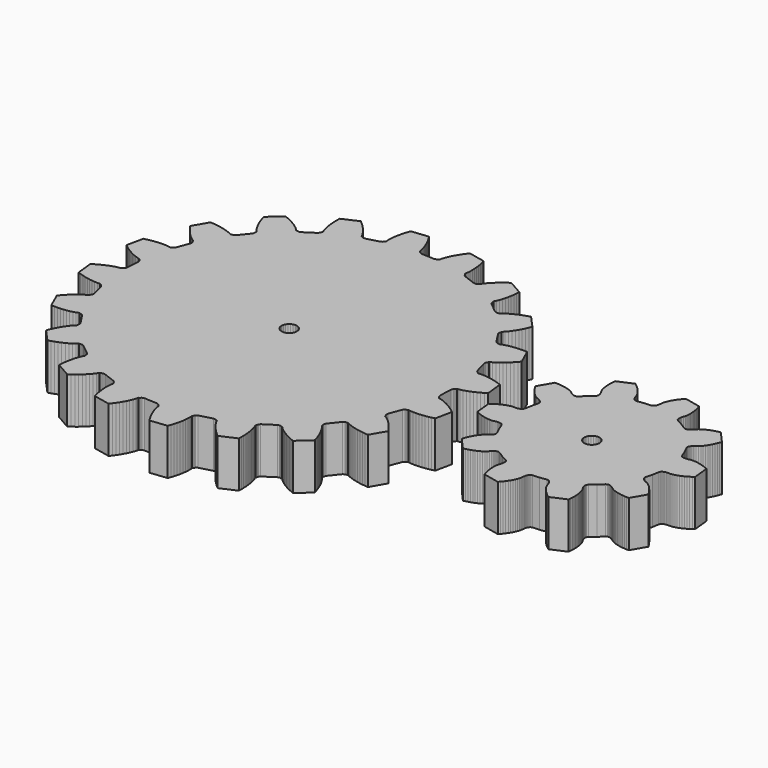
from build123d import *

# Parameters (mm, degrees)
F1_DEPTH = 19.05


with BuildPart() as f1:
    # F0 (on Top) → F1 (new body)
    with BuildSketch(Plane.XY):
        Polygon((23.085806, -6.855714), (22.881082, -6.106414), (23.154132, -0.678434), (23.433024, 0.046482), (23.707598, 0.324612), (23.981664, 0.522986), (24.252936, 0.91821), (24.8031, 0.972312), (25.352502, 1.065784), (26.449782, 1.326388), (27.544522, 1.663954), (28.636214, 2.066036), (29.724096, 2.52603), (30.807152, 3.039364), (31.885128, 3.60299), (32.957008, 4.214368), (34.022284, 4.871974), (33.271968, 11.86815), (32.09163, 12.284964), (30.914594, 12.655296), (29.741622, 12.977622), (28.574238, 13.249656), (27.413712, 13.46835), (26.261568, 13.629894), (25.120092, 13.727684), (23.992586, 13.749782), (23.435818, 13.724636), (22.88667, 13.660882), (22.537928, 13.989558), (22.227794, 14.125448), (21.900388, 14.338808), (21.47443, 14.988286), (20.056602, 20.23491), (20.09775, 21.010626), (20.27301, 21.359876), (20.4724, 21.633434), (20.60829, 22.09292), (21.114766, 22.314408), (21.608542, 22.573234), (22.57171, 23.160228), (23.508462, 23.819358), (24.422354, 24.539194), (25.314656, 25.312878), (26.186384, 26.135838), (27.037284, 27.004772), (27.867864, 27.917648), (28.677616, 28.87218), (25.802336, 35.294062), (24.550878, 35.325812), (23.316946, 35.314128), (22.10181, 35.258248), (20.907502, 35.15614), (19.736054, 35.005772), (18.590514, 34.803334), (17.474692, 34.543746), (16.395446, 34.216086), (15.87373, 34.020252), (15.371318, 33.789874), (14.937994, 33.994598), (14.60119, 34.027872), (14.223746, 34.12998), (13.617702, 34.615882), (10.648188, 39.167562), (10.447528, 39.918132), (10.506456, 40.304466), (10.611612, 40.626284), (10.598658, 41.105328), (11.011916, 41.472358), (11.401552, 41.870884), (12.13612, 42.726864), (12.823444, 43.643296), (13.470128, 44.610274), (14.079728, 45.621702), (14.65453, 46.67377), (15.195296, 47.76343), (15.703042, 48.888142), (16.178276, 50.046128), (11.458956, 55.26532), (10.25906, 54.908704), (9.089136, 54.516274), (7.950708, 54.087776), (6.84657, 53.621432), (5.779008, 53.11648), (4.751832, 52.569872), (3.770884, 51.978052), (2.845816, 51.333146), (2.410206, 50.985674), (2.003298, 50.611278), (1.528064, 50.671984), (1.197356, 50.599848), (0.806958, 50.580036), (0.080518, 50.855118), (-4.15036, 54.266338), (-4.573016, 54.918102), (-4.636516, 55.303674), (-4.635754, 55.642256), (-4.796028, 56.093868), (-4.516628, 56.570626), (-4.269232, 57.070244), (-3.835146, 58.111136), (-3.46456, 59.195208), (-3.14833, 60.314586), (-2.881122, 61.464952), (-2.659634, 62.643004), (-2.482088, 63.846456), (-2.346706, 65.073022), (-2.252472, 66.321178), (-8.353552, 69.826632), (-9.384538, 69.116702), (-10.376154, 68.382134), (-11.326114, 67.622674), (-12.232386, 66.838068), (-13.091668, 66.027808), (-13.899642, 65.190624), (-14.64945, 64.324738), (-15.33017, 63.425324), (-15.637002, 62.96025), (-15.908274, 62.478412), (-16.37919, 62.389512), (-16.67129, 62.218316), (-17.036542, 62.079124), (-17.812258, 62.115954), (-22.890226, 64.053212), (-23.49373, 64.542416), (-23.673308, 64.88938), (-23.777194, 65.211452), (-24.06904, 65.591436), (-23.950676, 66.13144), (-23.86965, 66.682874), (-23.778464, 67.807078), (-23.761192, 68.952618), (-23.806404, 70.114922), (-23.90775, 71.291704), (-24.061166, 72.480424), (-24.264112, 73.679812), (-24.514302, 74.88809), (-24.810466, 76.104496), (-31.696152, 77.552804), (-32.45739, 76.559156), (-33.173416, 75.554078), (-33.842198, 74.538078), (-34.461704, 73.511918), (-35.028378, 72.475852), (-35.538156, 71.430134), (-35.983926, 70.374764), (-36.353242, 69.30898), (-36.501324, 68.77177), (-36.610544, 68.229734), (-37.030914, 67.99961), (-37.255704, 67.746626), (-37.559996, 67.501516), (-38.309296, 67.296792), (-43.737276, 67.569842), (-44.462446, 67.848734), (-44.740322, 68.123308), (-44.938696, 68.397374), (-45.33392, 68.668646), (-45.388022, 69.21881), (-45.481494, 69.768212), (-45.742098, 70.865492), (-46.079664, 71.960232), (-46.481746, 73.051924), (-46.94174, 74.139806), (-47.455074, 75.222862), (-48.0187, 76.300838), (-48.630078, 77.372718), (-49.287684, 78.437994), (-56.28386, 77.687678), (-56.700674, 76.50734), (-57.071006, 75.330304), (-57.393332, 74.157332), (-57.665366, 72.989948), (-57.884314, 71.829422), (-58.045858, 70.677278), (-58.143648, 69.535802), (-58.165492, 68.408296), (-58.140346, 67.851528), (-58.076846, 67.30238), (-58.405268, 66.953638), (-58.541158, 66.643504), (-58.754518, 66.316098), (-59.403996, 65.89014), (-64.65062, 64.472312), (-65.426336, 64.51346), (-65.77584, 64.68872), (-66.049144, 64.88811), (-66.508884, 65.024), (-66.730372, 65.530476), (-66.988944, 66.024252), (-67.575938, 66.98742), (-68.235068, 67.924172), (-68.954904, 68.838064), (-69.728588, 69.730366), (-70.551548, 70.602094), (-71.420482, 71.452994), (-72.333358, 72.283574), (-73.28789, 73.093326), (-79.710026, 70.218046), (-79.741522, 68.966588), (-79.730092, 67.732656), (-79.673958, 66.51752), (-79.572104, 65.323212), (-79.421482, 64.151764), (-79.219298, 63.006224), (-78.959456, 61.890402), (-78.63205, 60.811156), (-78.435962, 60.28944), (-78.205584, 59.787028), (-78.410308, 59.353704), (-78.443836, 59.0169), (-78.54569, 58.639456), (-79.031592, 58.033412), (-83.583526, 55.063898), (-84.333842, 54.863238), (-84.720176, 54.922166), (-85.041994, 55.027322), (-85.521038, 55.014368), (-85.888322, 55.427626), (-86.286848, 55.817262), (-87.142574, 56.55183), (-88.059006, 57.239154), (-89.025984, 57.885838), (-90.037666, 58.495438), (-91.08948, 59.07024), (-92.17914, 59.611006), (-93.303852, 60.118752), (-94.461838, 60.593986), (-99.68103, 55.874666), (-99.324414, 54.67477), (-98.932238, 53.504846), (-98.503486, 52.366418), (-98.037396, 51.26228), (-97.53219, 50.194718), (-96.985836, 49.167542), (-96.394016, 48.186594), (-95.74911, 47.261526), (-95.401384, 46.825916), (-95.026988, 46.419008), (-95.087948, 45.943774), (-95.015558, 45.613066), (-94.995746, 45.222668), (-95.270828, 44.496228), (-98.682048, 40.26535), (-99.333812, 39.842694), (-99.719384, 39.779194), (-100.057966, 39.779956), (-100.509578, 39.619682), (-100.98659, 39.899082), (-101.485954, 40.146478), (-102.526846, 40.580564), (-103.610918, 40.95115), (-104.73055, 41.26738), (-105.880916, 41.534588), (-107.058968, 41.756076), (-108.262166, 41.933622), (-109.488732, 42.069004), (-110.737142, 42.163238), (-114.242342, 36.062158), (-113.532412, 35.031172), (-112.797844, 34.039556), (-112.038384, 33.089596), (-111.253778, 32.183324), (-110.443518, 31.324042), (-109.606334, 30.516068), (-108.740448, 29.76626), (-107.841288, 29.08554), (-107.37596, 28.778708), (-106.894376, 28.507436), (-106.805222, 28.03652), (-106.63428, 27.74442), (-106.494834, 27.379168), (-106.531918, 26.603452), (-108.468922, 21.525484), (-108.958126, 20.92198), (-109.30509, 20.742402), (-109.627162, 20.638516), (-110.0074, 20.34667), (-110.54715, 20.465034), (-111.098584, 20.54606), (-112.222788, 20.637246), (-113.368328, 20.654518), (-114.530632, 20.609306), (-115.707414, 20.50796), (-116.896134, 20.354544), (-118.095522, 20.151598), (-119.304054, 19.901408), (-120.520206, 19.605244), (-121.968768, 12.719558), (-120.974866, 11.95832), (-119.969788, 11.242294), (-118.953788, 10.573512), (-117.927628, 9.954006), (-116.891562, 9.387332), (-115.845844, 8.877554), (-114.790474, 8.431784), (-113.724944, 8.062468), (-113.18748, 7.914386), (-112.645698, 7.805166), (-112.41532, 7.384796), (-112.16259, 7.160006), (-111.917226, 6.855714), (-111.712502, 6.106414), (-111.985552, 0.678434), (-112.264444, -0.046736), (-112.539018, -0.324612), (-112.813338, -0.522986), (-113.084356, -0.91821), (-113.63452, -0.972312), (-114.184176, -1.065784), (-115.281456, -1.326388), (-116.376196, -1.663954), (-117.467634, -2.066036), (-118.555516, -2.52603), (-119.638826, -3.039364), (-120.716548, -3.60299), (-121.788682, -4.214368), (-122.853704, -4.871974), (-122.103642, -11.86815), (-120.923304, -12.284964), (-119.746014, -12.655296), (-118.573042, -12.977622), (-117.405658, -13.249656), (-116.245132, -13.468604), (-115.092988, -13.630148), (-113.951766, -13.727938), (-112.824006, -13.749782), (-112.267238, -13.724636), (-111.71809, -13.661136), (-111.369348, -13.989558), (-111.059214, -14.125448), (-110.732062, -14.338808), (-110.30585, -14.988286), (-108.888276, -20.23491), (-108.92917, -21.010626), (-109.10443, -21.36013), (-109.304074, -21.633434), (-109.439964, -22.093174), (-109.946186, -22.314662), (-110.439962, -22.573234), (-111.40313, -23.160228), (-112.339882, -23.819358), (-113.253774, -24.539194), (-114.14633, -25.312878), (-115.017804, -26.135838), (-115.868958, -27.004772), (-116.699284, -27.917648), (-117.509036, -28.87218), (-114.633756, -35.294316), (-113.382298, -35.325812), (-112.148366, -35.314382), (-110.93323, -35.258248), (-109.738922, -35.156394), (-108.567474, -35.005772), (-107.421934, -34.803588), (-106.306112, -34.543746), (-105.226866, -34.21634), (-104.70515, -34.020252), (-104.202738, -33.789874), (-103.769414, -33.994598), (-103.43261, -34.028126), (-103.055166, -34.12998), (-102.449376, -34.615882), (-99.479862, -39.167816), (-99.279202, -39.918132), (-99.337876, -40.304466), (-99.443032, -40.626284), (-99.430332, -41.105328), (-99.843336, -41.472612), (-100.232972, -41.871138), (-100.96754, -42.726864), (-101.654864, -43.643296), (-102.301548, -44.610274), (-102.911402, -45.621956), (-103.48595, -46.67377), (-104.026716, -47.76343), (-104.534462, -48.888142), (-105.009696, -50.046128), (-100.29063, -55.26532), (-99.090734, -54.908704), (-97.920556, -54.516528), (-96.782382, -54.087776), (-95.67799, -53.621686), (-94.610428, -53.11648), (-93.583506, -52.570126), (-92.602558, -51.978306), (-91.677236, -51.3334), (-91.241626, -50.985674), (-90.834718, -50.611278), (-90.359484, -50.672238), (-90.028776, -50.599848), (-89.638632, -50.580036), (-88.911938, -50.855118), (-84.681314, -54.266338), (-84.258404, -54.918102), (-84.194904, -55.303674), (-84.195666, -55.642256), (-84.035392, -56.093868), (-84.314792, -56.57088), (-84.562442, -57.070244), (-84.996528, -58.111136), (-85.36686, -59.195208), (-85.68309, -60.31484), (-85.950552, -61.465206), (-86.171786, -62.643258), (-86.349586, -63.846456), (-86.484714, -65.073022), (-86.578948, -66.321432), (-80.477868, -69.826632), (-79.446882, -69.116702), (-78.45552, -68.382134), (-77.505306, -67.622674), (-76.599034, -66.838068), (-75.739752, -66.027808), (-74.932032, -65.190624), (-74.18197, -64.324738), (-73.50125, -63.425578), (-73.194418, -62.96025), (-72.923146, -62.478666), (-72.45223, -62.389512), (-72.16013, -62.21857), (-71.795132, -62.079124), (-71.019162, -62.116208), (-65.941194, -64.053212), (-65.337944, -64.542416), (-65.158366, -64.88938), (-65.054226, -65.211452), (-64.76238, -65.59169), (-64.880744, -66.13144), (-64.96177, -66.682874), (-65.052956, -67.807078), (-65.070228, -68.952618), (-65.025016, -70.114922), (-64.923924, -71.291704), (-64.770254, -72.480424), (-64.567562, -73.679812), (-64.317118, -74.888344), (-64.020954, -76.104496), (-57.135268, -77.553058), (-56.37403, -76.559156), (-55.658258, -75.554078), (-54.989222, -74.538078), (-54.369716, -73.511918), (-53.803042, -72.475852), (-53.293264, -71.430134), (-52.847748, -70.374764), (-52.478178, -69.309234), (-52.330096, -68.77177), (-52.220876, -68.229988), (-51.80076, -67.99961), (-51.575716, -67.74688), (-51.271424, -67.501516), (-50.522124, -67.296792), (-45.094144, -67.569842), (-44.369228, -67.848734), (-44.091098, -68.123308), (-43.892724, -68.397628), (-43.4975, -68.668646), (-43.443398, -69.21881), (-43.349926, -69.768466), (-43.089322, -70.865746), (-42.751756, -71.960486), (-42.349674, -73.051924), (-41.88968, -74.139806), (-41.376346, -75.223116), (-40.81272, -76.300838), (-40.201342, -77.372972), (-39.543736, -78.437994), (-32.54756, -77.687932), (-32.130746, -76.507594), (-31.760414, -75.330304), (-31.438088, -74.157332), (-31.166054, -72.989948), (-30.94736, -71.829422), (-30.785816, -70.677278), (-30.688026, -69.536056), (-30.665928, -68.408296), (-30.691074, -67.851528), (-30.754828, -67.30238), (-30.426152, -66.953638), (-30.290262, -66.643504), (-30.076902, -66.316352), (-29.427424, -65.89014), (-24.1808, -64.472566), (-23.405084, -64.51346), (-23.055834, -64.68872), (-22.782276, -64.888364), (-22.32279, -65.024254), (-22.101302, -65.530476), (-21.842476, -66.024252), (-21.255482, -66.98742), (-20.596352, -67.924172), (-19.876516, -68.838064), (-19.102832, -69.73062), (-18.279872, -70.602094), (-17.410938, -71.453248), (-16.498062, -72.283574), (-15.54353, -73.093326), (-9.121648, -70.218046), (-9.089898, -68.966588), (-9.101582, -67.732656), (-9.157462, -66.51752), (-9.25957, -65.323212), (-9.409938, -64.151764), (-9.612376, -63.006224), (-9.871964, -61.890402), (-10.199624, -60.811156), (-10.395458, -60.28944), (-10.625836, -59.787028), (-10.421112, -59.353704), (-10.387838, -59.0169), (-10.28573, -58.639456), (-9.799828, -58.033666), (-5.248148, -55.064152), (-4.497578, -54.863492), (-4.111244, -54.922166), (-3.789426, -55.027322), (-3.310382, -55.014622), (-2.943352, -55.427626), (-2.544826, -55.817262), (-1.688846, -56.55183), (-0.772414, -57.239154), (0.194564, -57.885838), (1.205992, -58.495692), (2.25806, -59.07024), (3.34772, -59.611006), (4.472432, -60.118752), (5.630418, -60.593986), (10.84961, -55.87492), (10.492994, -54.675024), (10.100564, -53.504846), (9.672066, -52.366672), (9.205722, -51.26228), (8.70077, -50.194718), (8.154162, -49.167796), (7.562342, -48.186848), (6.917436, -47.261526), (6.569964, -46.825916), (6.195568, -46.419008), (6.256274, -45.943774), (6.184138, -45.613066), (6.164326, -45.222922), (6.439408, -44.496228), (9.850628, -40.265604), (10.502392, -39.842694), (10.887964, -39.779194), (11.226546, -39.779956), (11.678158, -39.619682), (12.154916, -39.899082), (12.654534, -40.146732), (13.695426, -40.580818), (14.779498, -40.95115), (15.898876, -41.26738), (17.049242, -41.534842), (18.227294, -41.756076), (19.430746, -41.933876), (20.657312, -42.069004), (21.905468, -42.163238), (25.410922, -36.062158), (24.700992, -35.031172), (23.966424, -34.03981), (23.206964, -33.089596), (22.422358, -32.183324), (21.612098, -31.324042), (20.774914, -30.516322), (19.909028, -29.76626), (19.009614, -29.08554), (18.54454, -28.778708), (18.062702, -28.507436), (17.973802, -28.03652), (17.802606, -27.74442), (17.663414, -27.379422), (17.700244, -26.603452), (19.637502, -21.525484), (20.126706, -20.922234), (20.47367, -20.742656), (20.795742, -20.638516), (21.175726, -20.34667), (21.71573, -20.465034), (22.267164, -20.54606), (23.391368, -20.637246), (24.536908, -20.654518), (25.699212, -20.609306), (26.875994, -20.508214), (28.064714, -20.354544), (29.264102, -20.151852), (30.47238, -19.901408), (31.688786, -19.605244), (33.137094, -12.719558), (32.143446, -11.95832), (31.138368, -11.242548), (30.122368, -10.573512), (29.096208, -9.954006), (28.060142, -9.387332), (27.014424, -8.877554), (25.959054, -8.432038), (24.89327, -8.062468), (24.35606, -7.914386), (23.814024, -7.805166), (23.5839, -7.38505), (23.330916, -7.160006), align=None)
        Polygon((-41.348914, 0.82169), (-41.24071, 0), (-41.348914, -0.82169), (-41.66616, -1.5875), (-42.170604, -2.245106), (-42.82821, -2.74955), (-43.59402, -3.066796), (-44.41571, -3.175), (-45.2374, -3.066796), (-46.00321, -2.74955), (-46.660816, -2.245106), (-47.16526, -1.5875), (-47.482506, -0.82169), (-47.59071, 0), (-47.482506, 0.82169), (-47.16526, 1.5875), (-46.660816, 2.245106), (-46.00321, 2.74955), (-45.2374, 3.066796), (-44.41571, 3.175), (-43.59402, 3.066796), (-42.82821, 2.74955), (-42.170604, 2.245106), (-41.66616, 1.5875), align=None, mode=Mode.SUBTRACT)
        Polygon((51.049174, -9.408668), (51.406806, -9.912858), (52.411376, -12.503404), (53.64353, -14.99362), (53.773578, -15.597886), (53.729636, -15.887192), (53.654706, -16.121888), (53.563012, -16.326612), (53.460142, -16.511524), (53.348636, -16.681704), (53.106066, -16.989552), (52.844192, -17.26438), (52.56657, -17.513808), (51.975258, -17.953228), (51.3715, -18.37309), (50.829464, -18.890996), (50.325274, -19.467322), (49.852326, -20.089114), (49.407572, -20.750784), (48.99025, -21.448268), (48.599344, -22.178772), (48.2346, -22.940264), (47.896272, -23.730966), (47.584106, -24.5491), (47.298864, -25.39365), (51.799998, -30.434788), (52.671218, -30.246574), (53.519578, -30.02915), (54.3433, -29.782008), (55.141114, -29.505656), (55.910988, -29.199586), (56.651144, -28.863544), (57.358788, -28.496514), (58.03011, -28.096718), (58.659522, -27.6606), (59.23534, -27.18054), (59.72048, -26.62809), (60.223908, -26.090118), (60.503054, -25.842468), (60.805822, -25.613106), (61.138816, -25.407112), (61.32068, -25.315418), (61.516006, -25.233884), (61.729874, -25.166066), (61.971428, -25.11806), (62.264036, -25.107138), (62.849506, -25.304496), (65.184782, -26.809954), (67.645534, -28.100274), (68.105782, -28.51277), (68.240402, -28.772612), (68.317872, -29.006292), (68.3641, -29.226002), (68.389246, -29.43606), (68.399152, -29.639514), (68.383912, -30.030928), (68.33362, -30.407102), (68.255642, -30.7721), (68.035424, -31.475426), (67.79387, -32.169862), (67.659758, -32.907478), (67.59067, -33.669986), (67.573398, -34.45129), (67.602608, -35.247834), (67.674998, -36.057332), (67.788028, -36.87826), (67.940682, -37.708586), (68.131436, -38.54704), (68.360036, -39.392352), (68.62572, -40.243506), (75.230228, -41.676066), (75.824588, -41.011856), (76.38288, -40.337232), (76.904088, -39.65321), (77.386942, -38.960552), (77.830172, -38.260528), (78.231238, -37.553646), (78.588108, -36.840668), (78.89621, -36.12261), (79.14894, -35.39998), (79.332836, -34.673032), (79.400654, -33.94075), (79.491586, -33.209484), (79.57185, -32.845248), (79.682086, -32.481774), (79.830422, -32.119316), (79.92364, -31.938214), (80.033622, -31.75762), (80.166718, -31.576772), (80.33385, -31.396178), (80.564228, -31.21533), (81.154016, -31.030926), (83.928204, -30.875986), (86.677246, -30.47365), (87.29218, -30.536642), (87.5538, -30.66796), (87.753698, -30.81147), (87.920322, -30.962092), (88.06434, -31.117032), (88.191594, -31.275782), (88.409526, -31.60141), (88.589866, -31.935674), (88.741504, -32.276542), (88.976708, -32.975042), (89.189306, -33.678876), (89.514426, -34.354262), (89.906602, -35.011868), (90.351864, -35.65398), (90.843862, -36.28136), (91.378024, -36.893754), (91.952064, -37.491416), (92.563696, -38.073584), (93.210888, -38.63975), (93.892878, -39.189152), (94.607888, -39.721536), (100.793296, -36.998656), (100.883466, -36.111688), (100.938584, -35.237928), (100.958142, -34.378138), (100.941886, -33.533842), (100.8888, -32.707072), (100.797868, -31.899352), (100.667312, -31.112968), (100.494592, -30.350968), (100.274374, -29.61767), (99.99599, -28.921456), (99.620324, -28.28925), (99.264216, -27.644344), (99.115118, -27.302206), (98.990404, -26.943558), (98.89744, -26.563066), (98.866452, -26.361898), (98.84918, -26.150824), (98.850704, -25.926542), (98.879914, -25.682194), (98.95967, -25.400508), (99.328478, -24.904446), (101.48189, -23.148544), (103.46944, -21.207222), (104.003856, -20.896834), (104.292654, -20.849082), (104.539034, -20.847812), (104.762046, -20.871688), (104.969818, -20.912582), (105.16616, -20.965922), (105.533698, -21.101304), (105.87609, -21.265642), (106.198924, -21.452586), (106.799888, -21.879306), (107.385612, -22.323806), (108.045758, -22.679152), (108.749592, -22.98065), (109.487208, -23.238206), (110.25378, -23.456646), (111.04626, -23.638002), (111.861854, -23.784052), (112.69853, -23.895558), (113.555018, -23.973282), (114.429794, -24.01697), (115.32108, -24.027384), (118.72468, -18.18894), (118.27637, -17.418304), (117.807232, -16.67891), (117.317774, -15.971774), (116.808504, -15.29842), (116.279422, -14.660626), (115.73129, -14.060678), (115.163346, -13.501116), (114.57559, -12.986258), (113.966498, -12.522454), (113.332006, -12.122912), (112.65662, -11.832336), (111.989362, -11.519662), (111.667544, -11.330686), (111.355886, -11.11377), (111.056928, -10.860532), (110.913672, -10.716006), (110.77575, -10.555478), (110.645194, -10.373106), (110.525052, -10.158222), (110.42396, -9.883394), (110.430818, -9.265412), (111.141002, -6.579108), (111.607854, -3.840226), (111.85779, -3.275076), (112.06353, -3.066542), (112.261904, -2.921), (112.456214, -2.808986), (112.648238, -2.720086), (112.838738, -2.64795), (113.215674, -2.54127), (113.589054, -2.472944), (113.960148, -2.434336), (114.697256, -2.426462), (115.432332, -2.441702), (116.175282, -2.341118), (116.921788, -2.171446), (117.670072, -1.946402), (118.41861, -1.672336), (119.166386, -1.353312), (119.91213, -0.992124), (120.654572, -0.59055), (121.393204, -0.14986), (122.126502, 0.328676), (122.853704, 0.844296), (122.175524, 7.568438), (121.35993, 7.928356), (120.54586, 8.250936), (119.734076, 8.535162), (118.926356, 8.780526), (118.123462, 8.985504), (117.327172, 9.148572), (116.53901, 9.267698), (115.760754, 9.338818), (114.995452, 9.35609), (114.247168, 9.306052), (113.529872, 9.144254), (112.80648, 9.004808), (112.435132, 8.96874), (112.055402, 8.96112), (111.66475, 8.990076), (111.463836, 9.022842), (111.257842, 9.071864), (111.04499, 9.142476), (110.82147, 9.2456), (110.578392, 9.408668), (110.220506, 9.912604), (109.21619, 12.50315), (107.983782, 14.99362), (107.853734, 15.597632), (107.897676, 15.887192), (107.972606, 16.121634), (108.0643, 16.326358), (108.16717, 16.511524), (108.278676, 16.681704), (108.521246, 16.989298), (108.78312, 17.264126), (109.060742, 17.513554), (109.652308, 17.953228), (110.255812, 18.372836), (110.797848, 18.890996), (111.302038, 19.467068), (111.77524, 20.089114), (112.21974, 20.750784), (112.637062, 21.448268), (113.027968, 22.178772), (113.392712, 22.940264), (113.73104, 23.730712), (114.043206, 24.5491), (114.328448, 25.39365), (109.827314, 30.434788), (108.956094, 30.246574), (108.107734, 30.028896), (107.284012, 29.782008), (106.486452, 29.505656), (105.716324, 29.199586), (104.976168, 28.863544), (104.268778, 28.496514), (103.597202, 28.096718), (102.968044, 27.6606), (102.391972, 27.18054), (101.906832, 26.62809), (101.403404, 26.089864), (101.124258, 25.842468), (100.82149, 25.613106), (100.488496, 25.407112), (100.306632, 25.315418), (100.111306, 25.233884), (99.897438, 25.165812), (99.656138, 25.11806), (99.36353, 25.107138), (98.777806, 25.304496), (96.44253, 26.809954), (93.981778, 28.100274), (93.52153, 28.512516), (93.38691, 28.772612), (93.309694, 29.006292), (93.263466, 29.225748), (93.238066, 29.43606), (93.22816, 29.63926), (93.2434, 30.030674), (93.293946, 30.407102), (93.37167, 30.7721), (93.591888, 31.475172), (93.833442, 32.169608), (93.967554, 32.907478), (94.036896, 33.669986), (94.053914, 34.451036), (94.024704, 35.24758), (93.952568, 36.057332), (93.839284, 36.878006), (93.686884, 37.708586), (93.495876, 38.54704), (93.267276, 39.392352), (93.001846, 40.243252), (86.397084, 41.676066), (85.802724, 41.011602), (85.244432, 40.336978), (84.723224, 39.652956), (84.24037, 38.960552), (83.79714, 38.260274), (83.396074, 37.553392), (83.039458, 36.840668), (82.731356, 36.12261), (82.478372, 35.39998), (82.294476, 34.673032), (82.226658, 33.94075), (82.135726, 33.209484), (82.055462, 32.845248), (81.94548, 32.481774), (81.79689, 32.119316), (81.703672, 31.938214), (81.59369, 31.757366), (81.460594, 31.576772), (81.293462, 31.396178), (81.063084, 31.21533), (80.473296, 31.030926), (77.699108, 30.875986), (74.950066, 30.47365), (74.335132, 30.536642), (74.073512, 30.66796), (73.873614, 30.81147), (73.707244, 30.961838), (73.562972, 31.117032), (73.435718, 31.275782), (73.217786, 31.60141), (73.037446, 31.93542), (72.886062, 32.276542), (72.650858, 32.974788), (72.438006, 33.678876), (72.112886, 34.354262), (71.72071, 35.011868), (71.275448, 35.65398), (70.78345, 36.281106), (70.249288, 36.893754), (69.675248, 37.491416), (69.063616, 38.07333), (68.416424, 38.639496), (67.734688, 39.189152), (67.019678, 39.721536), (60.83427, 36.998656), (60.743846, 36.111688), (60.688728, 35.237674), (60.66917, 34.377884), (60.685426, 33.533842), (60.738512, 32.707072), (60.829444, 31.899352), (60.96, 31.112968), (61.13272, 30.350714), (61.352938, 29.617416), (61.631322, 28.921456), (62.006988, 28.28925), (62.363096, 27.64409), (62.512194, 27.302206), (62.636908, 26.943558), (62.729872, 26.563066), (62.76086, 26.361898), (62.778132, 26.150824), (62.776608, 25.926542), (62.747652, 25.68194), (62.667642, 25.400254), (62.298834, 24.904446), (60.145422, 23.148544), (58.157872, 21.207222), (57.623456, 20.89658), (57.334658, 20.849082), (57.088532, 20.847812), (56.865266, 20.871688), (56.657748, 20.912582), (56.461152, 20.965922), (56.093614, 21.101304), (55.751222, 21.265642), (55.428388, 21.452332), (54.827678, 21.879306), (54.2417, 22.323552), (53.581554, 22.678898), (52.87772, 22.980396), (52.140104, 23.238206), (51.373532, 23.456646), (50.581306, 23.638002), (49.765712, 23.784052), (48.928782, 23.895558), (48.072294, 23.973028), (47.197518, 24.01697), (46.306232, 24.027384), (42.902632, 18.188686), (43.350942, 17.418304), (43.82008, 16.67891), (44.309538, 15.971774), (44.818808, 15.29842), (45.34789, 14.660626), (45.896276, 14.060678), (46.463966, 13.501116), (47.051722, 12.986258), (47.660814, 12.5222), (48.295306, 12.122912), (48.970692, 11.832082), (49.63795, 11.519662), (49.959768, 11.330686), (50.271426, 11.11377), (50.570384, 10.860532), (50.71364, 10.716006), (50.851562, 10.555478), (50.982118, 10.373106), (51.10226, 10.158222), (51.203352, 9.883394), (51.196494, 9.265412), (50.48631, 6.579108), (50.019458, 3.840226), (49.769522, 3.274822), (49.563782, 3.066542), (49.365408, 2.920746), (49.171098, 2.808986), (48.979074, 2.720086), (48.788574, 2.647696), (48.411638, 2.54127), (48.038258, 2.472944), (47.667164, 2.434336), (46.93031, 2.426462), (46.19498, 2.441702), (45.45203, 2.341118), (44.705524, 2.171192), (43.95724, 1.946148), (43.208702, 1.672336), (42.460926, 1.353312), (41.715182, 0.992124), (40.97274, 0.59055), (40.234108, 0.149606), (39.50081, -0.32893), (38.773608, -0.844296), (39.452042, -7.568438), (40.267382, -7.928356), (41.081706, -8.250936), (41.893236, -8.535162), (42.70121, -8.780526), (43.50385, -8.985504), (44.30014, -9.148826), (45.088302, -9.267698), (45.866558, -9.338818), (46.63186, -9.35609), (47.380144, -9.306306), (48.09744, -9.144508), (48.821086, -9.005062), (49.192434, -8.96874), (49.57191, -8.96112), (49.962562, -8.99033), (50.163476, -9.022842), (50.36947, -9.071864), (50.582322, -9.142476), (50.805842, -9.245854), align=None)
        Polygon((83.880452, 0.82169), (83.988656, 0), (83.880452, -0.82169), (83.563206, -1.5875), (83.058762, -2.245106), (82.401156, -2.74955), (81.635346, -3.066796), (80.813656, -3.175), (79.991966, -3.066796), (79.226156, -2.74955), (78.56855, -2.245106), (78.064106, -1.5875), (77.74686, -0.82169), (77.638656, 0), (77.74686, 0.82169), (78.064106, 1.5875), (78.56855, 2.245106), (79.226156, 2.74955), (79.991966, 3.066796), (80.813656, 3.175), (81.635346, 3.066796), (82.401156, 2.74955), (83.058762, 2.245106), (83.563206, 1.5875), align=None, mode=Mode.SUBTRACT)
    extrude(amount=F1_DEPTH)


solid = f1.part
